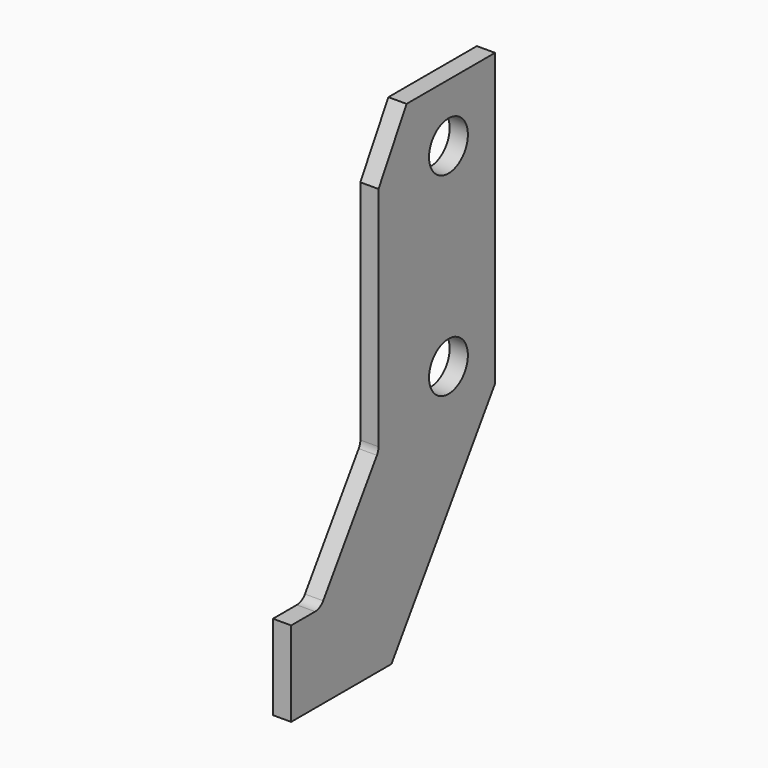
from build123d import *

# Parameters (mm, degrees)
F0_W     = 4.7625
F0_H     = 127
F1_DEPTH = 127
F2_R     = 6.35
F3_DEPTH = 50.8
F4_R     = 3.175


with BuildPart() as f1:
    # F0 (on Top) → F1 (new body)
    with BuildSketch(Plane.XY):
        with Locations((30.95625, -63.5)):
            Rectangle(F0_W, F0_H)
    extrude(amount=F1_DEPTH)

    # F2 (on Right) → F3 (cut, symmetric)
    with BuildSketch(Plane.YZ):
        with Locations((-15.24, 111.76)):
            Circle(F2_R)
        with Locations((-15.24, 60.96)):
            Circle(F2_R)
        Polygon((0, 0), (0, 50.8), (-33.866667, 0), align=None)
        Polygon((-127, 0), (-66.675, 0), (-66.675, 22.225), (-57.15, 22.225), (-38.1, 50.8), (-38.1, 111.125), (-28.934564, 127), (-127, 127), align=None)
    extrude(amount=F3_DEPTH, both=True, mode=Mode.SUBTRACT)

    # F4
    f4_edges = [f1.edges().sort_by_distance(p)[0] for p in [
        (30.95625, -57.15, 22.225),
        (30.95625, -38.1, 50.8),
    ]]
    fillet(f4_edges, radius=F4_R)


solid = f1.part
